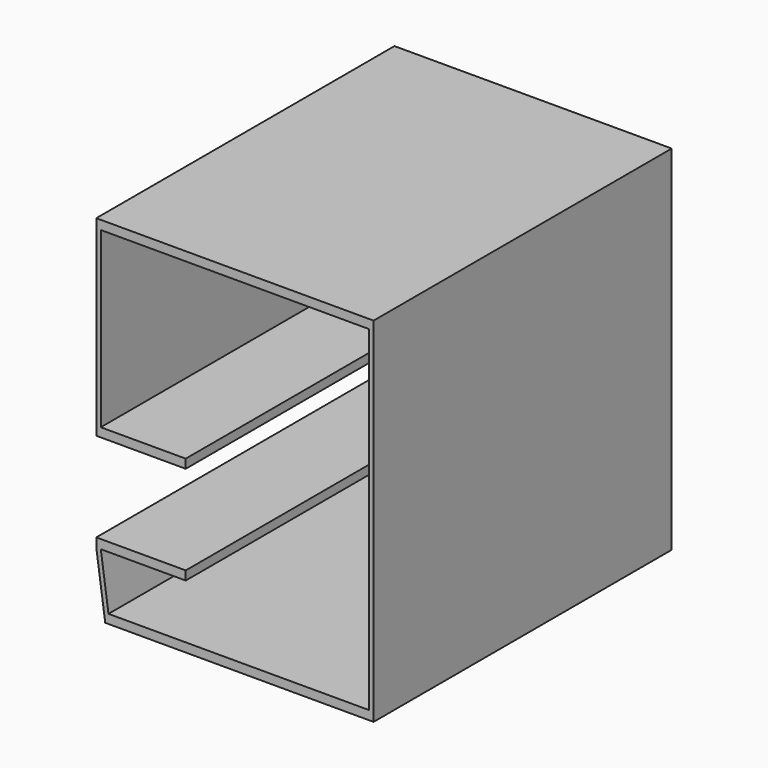
from build123d import *

# Parameters (mm, degrees)
F1_DEPTH = 5000


with BuildPart() as f1:
    # F0 (on Front) → F1 (new body)
    with BuildSketch(Plane.XZ):
        Polygon((449.437401, 1382.228501), (569.437401, 532.228501), (4169.437401, 532.228501), (4169.437401, 5272.228501), (449.437401, 5272.228501), (449.437401, 2702.228501), (1649.437401, 2702.228501), (1649.437401, 2822.228501), (509.437401, 2822.228501), (509.437401, 5152.228501), (4109.437401, 5152.228501), (4109.437401, 652.228501), (613.091199, 652.228501), (510.032375, 1382.228501), (1649.437401, 1382.228501), (1649.437401, 1502.228501), (449.437401, 1502.228501), align=None)
    extrude(amount=F1_DEPTH)


solid = f1.part
